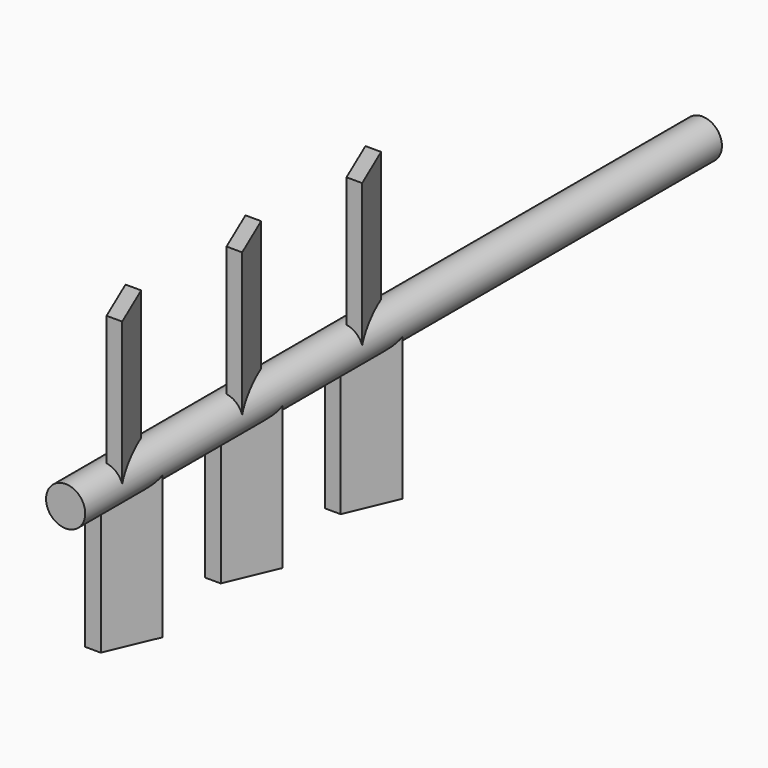
from build123d import *

# Parameters (mm, degrees)
F0_R     = 5
F1_DEPTH = 203.2
F3_DEPTH = 38.1
F5_DEPTH = 38.1
F7_DEPTH = 10


with BuildPart() as f1:
    # F0 (on Front) → F1 (new body)
    with BuildSketch(Plane.XZ):
        Circle(F0_R)
    extrude(amount=F1_DEPTH)

    # F2 (on Top) → F3 (join)
    with BuildSketch(Plane.XY):
        Polygon((0.735118, -114.487068), (4.735118, -114.487068), (-0.735118, -101.6), (-4.735118, -101.6), align=None)
        Polygon((4.735118, -152.774136), (-0.735118, -139.887068), (-4.735118, -139.887068), (0.735118, -152.774136), align=None)
        Polygon((4.735118, -191.061204), (-0.735118, -178.174136), (-4.735118, -178.174136), (0.735118, -191.061204), align=None)
    extrude(amount=F3_DEPTH)

    # F4 (on Top) → F5 (join)
    with BuildSketch(Plane.XY):
        Polygon((-4.735118, -114.487068), (-0.735118, -114.487068), (4.735118, -101.6), (0.735118, -101.6), align=None)
        Polygon((-4.735118, -152.774136), (-0.735118, -152.774136), (4.735118, -139.887068), (0.735118, -139.887068), align=None)
        Polygon((-4.735118, -191.061204), (-0.735118, -191.061204), (4.735118, -178.174136), (0.735118, -178.174136), align=None)
    extrude(amount=-F5_DEPTH)

    # F6 (on Front) → F7 (cut)
    with BuildSketch(Plane.XZ):
        with BuildLine():
            Line((1, 0.416667), (-1, 0.416667))
            ThreePointArc((-1, 0.416667), (0, -1.083333), (1, 0.416667))
        make_face()
    extrude(amount=F7_DEPTH, mode=Mode.SUBTRACT)


solid = f1.part
